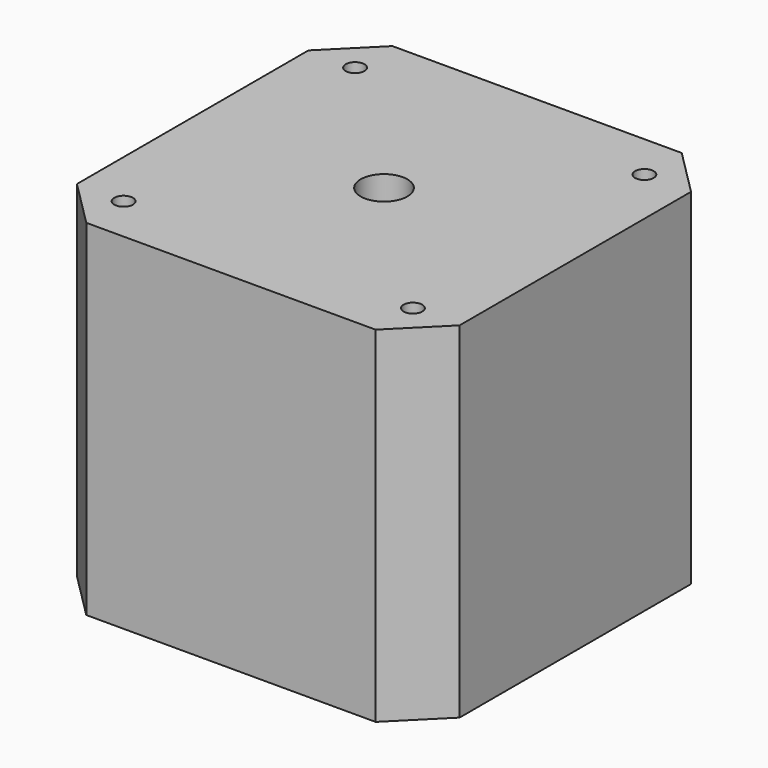
from build123d import *

# Parameters (mm, degrees)
F0_W     = 41
F0_H     = 41
F0_R     = 1
F0_R_2   = 11
F0_R_3   = 2.5
F1_DEPTH = 37
F2_SIZE  = 5
F3_DEPTH = 2
F4_DEPTH = 10


with BuildPart() as f1:
    # F0 (on Top) → F1 (new body)
    with BuildSketch(Plane.XY):
        with Locations((-20.5, 20.5)):
            Rectangle(F0_W, F0_H)
        with Locations((-36, 5)):
            Circle(F0_R, mode=Mode.SUBTRACT)
        with Locations((-5, 5)):
            Circle(F0_R, mode=Mode.SUBTRACT)
        with Locations((-36, 36)):
            Circle(F0_R, mode=Mode.SUBTRACT)
        with Locations((-20.5, 20.5)):
            Circle(F0_R_2, mode=Mode.SUBTRACT)
        with Locations((-5, 36)):
            Circle(F0_R, mode=Mode.SUBTRACT)
        with Locations((-20.5, 20.5)):
            Circle(F0_R_2)
        with Locations((-20.5, 20.5)):
            Circle(F0_R_3, mode=Mode.SUBTRACT)
    extrude(amount=F1_DEPTH)

    # F2
    f2_edges = [f1.edges().sort_by_distance(p)[0] for p in [
        (0, 41, 18.5),
        (-41, 41, 18.5),
        (0, 0, 18.5),
        (-41, 0, 18.5),
    ]]
    chamfer(f2_edges, length=F2_SIZE)

    # F0 (on Top) → F3 (join)
    with BuildSketch(Plane.XY):
        with Locations((-20.5, 20.5)):
            Circle(F0_R_2)
        with Locations((-20.5, 20.5)):
            Circle(F0_R_3, mode=Mode.SUBTRACT)
    extrude(amount=-F3_DEPTH)

    # F0 (on Top) → F4 (join)
    with BuildSketch(Plane.XY):
        with Locations((-20.5, 20.5)):
            Circle(F0_R_3)
    extrude(amount=-F4_DEPTH)


solid = f1.part
